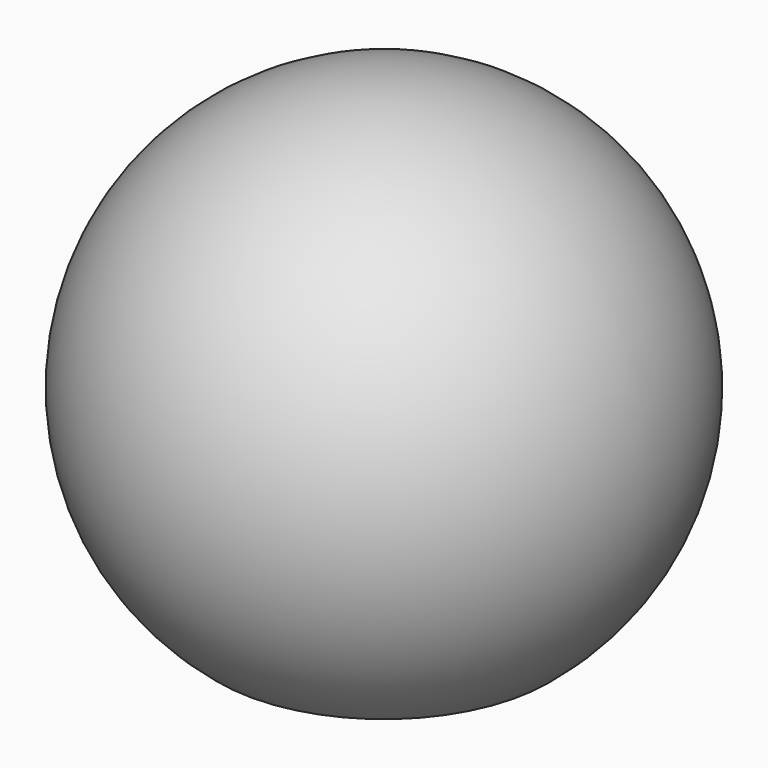
from build123d import *


with BuildPart() as f1:
    # F0 (on Front) → F1 (revolve)
    with BuildSketch(Plane.XZ):
        with BuildLine():
            Line((0, 45.227869), (0, 0))
            Line((0, 0), (15.875, 0))
            ThreePointArc((15.875, 0), (23.966517, 28.240126), (0, 45.227869))
        make_face()
    revolve(axis=Axis((0, 0, 22.613934), (0, 0, 1)))

    # F2 (on Front) → F3 (revolve, cut)
    with BuildSketch(Plane.XZ):
        Polygon((0, 43.18), (0, 0), (11.0236, 0), (11.0236, 15.24), (5.40004, 20.86356), (5.40004, 37.77996), align=None)
    revolve(axis=Axis((0, 0, 21.59), (0, 0, 1)), mode=Mode.SUBTRACT)


solid = f1.part
